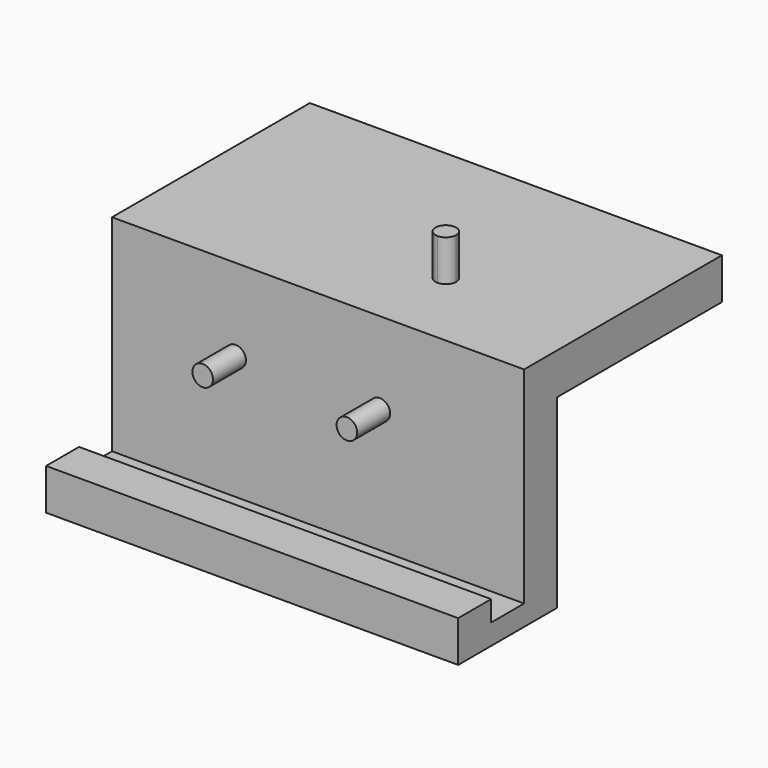
from build123d import *

# Parameters (mm, degrees)
F0_W      = 254
F0_H      = 152.4
F0_R      = 6.35
F1_DEPTH  = 25.4
F2_DEPTH  = 50.8
F3_W      = 254
F3_H      = 12.7
F4_DEPTH  = 25.4
F5_W      = 254
F5_H      = 25.4
F6_DEPTH  = 25.4
F7_W      = 254
F7_H      = 25.4
F8_DEPTH  = 25.4
F9_W      = 254
F9_H      = 25.4
F10_DEPTH = 127
F12_DEPTH = 25.4


with BuildPart() as f1:
    # F0 (on Front) → F1 (new body)
    with BuildSketch(Plane.XZ):
        Rectangle(F0_W, F0_H)
        with Locations((-50.8, 0)):
            Circle(F0_R, mode=Mode.SUBTRACT)
        with Locations((38.1, 0)):
            Circle(F0_R, mode=Mode.SUBTRACT)
    extrude(amount=F1_DEPTH)

    # F0 (on Front) → F2 (join)
    with BuildSketch(Plane.XZ):
        with Locations((38.1, 0)):
            Circle(F0_R)
        with Locations((-50.8, 0)):
            Circle(F0_R)
    extrude(amount=F2_DEPTH)

    # F3 (on face) → F4 (join, symmetric)
    with BuildSketch(Plane.XZ.offset(25.4)):
        with Locations((0, -82.55)):
            Rectangle(F3_W, F3_H)
    extrude(amount=F4_DEPTH, both=True)

    # F5 (on face) → F6 (join)
    with BuildSketch(Plane.XZ.offset(50.8)):
        with Locations((0, -76.2)):
            Rectangle(F5_W, F5_H)
    extrude(amount=F6_DEPTH)

    # F7 (on face) → F8 (cut)
    with BuildSketch(Plane.XY.offset(76.2)):
        with Locations((0, -12.7)):
            Rectangle(F7_W, F7_H)
    extrude(amount=-F8_DEPTH, mode=Mode.SUBTRACT)

    # F9 (on face) → F10 (join)
    with BuildSketch(Plane(origin=(0, 0, 0), x_dir=(-1, 0, 0), z_dir=(0, 1, 0))):
        with Locations((0, 38.1)):
            Rectangle(F9_W, F9_H)
    extrude(amount=F10_DEPTH)

    # F11 (on face) → F12 (join)
    with BuildSketch(Plane.XY.offset(50.8)):
        with BuildLine():
            ThreePointArc((44.45, 25.4), (33.6098719395, 29.8901280605), (38.1, 19.05))
            ThreePointArc((38.1, 19.05), (42.5901280605, 20.9098719395), (44.45, 25.4))
        make_face()
    extrude(amount=F12_DEPTH)


solid = f1.part
